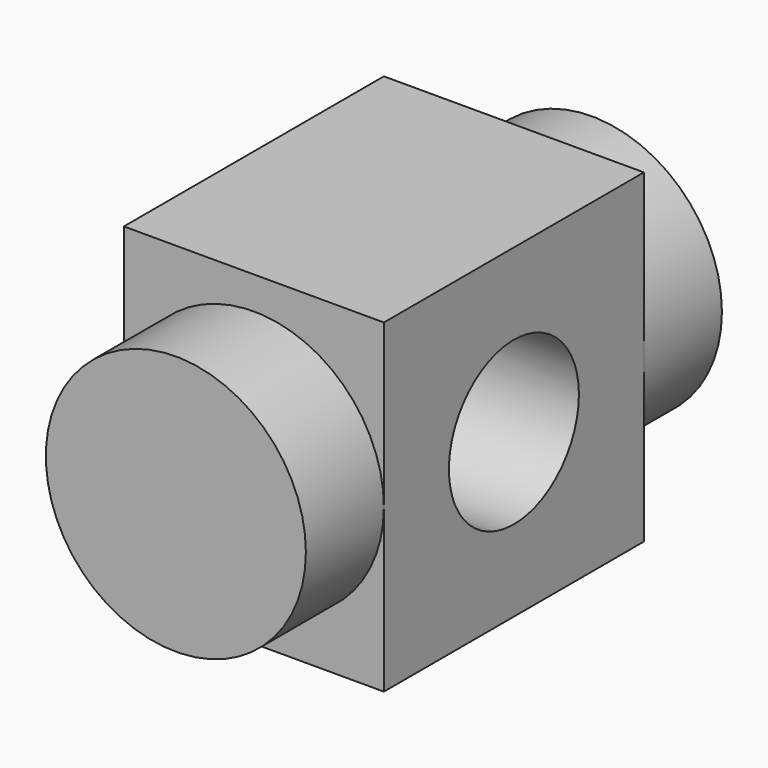
from build123d import *

# Parameters (mm, degrees)
F0_R     = 20
F1_DEPTH = 80
F3_W     = 40
F3_H     = 50
F4_DEPTH = 50
F5_R     = 12.5
F6_DEPTH = 20


with BuildPart() as f1:
    # F0 (on Front) → F1 (new body)
    with BuildSketch(Plane.XZ):
        Circle(F0_R)
    extrude(amount=F1_DEPTH)

    # F3 (on offset) → F4 (join)
    with BuildSketch(Plane.XZ.offset(15)):
        Rectangle(F3_W, F3_H)
    extrude(amount=F4_DEPTH)

    # F5 (on face) → F6 (cut)
    with BuildSketch(Plane.YZ.offset(20)):
        with Locations((-40, 0)):
            Circle(F5_R)
    extrude(amount=-F6_DEPTH, mode=Mode.SUBTRACT)


solid = f1.part
